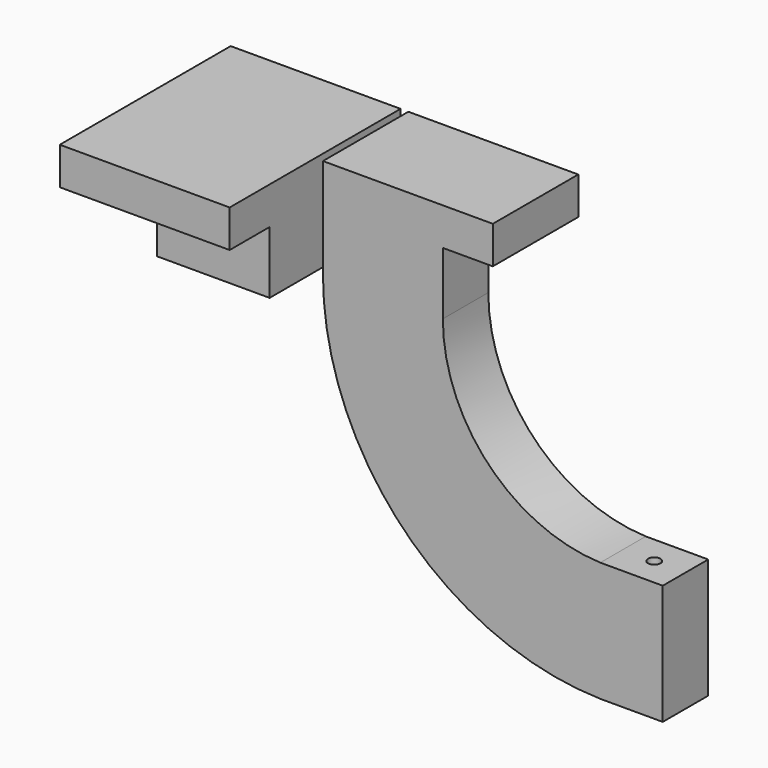
from build123d import *

# Parameters (mm, degrees)
F0_W     = 45
F0_H     = 45.5
F1_DEPTH = 25
F0_W_2   = 48
F0_H_2   = 22.75
F2_W     = 68
F2_H     = 85.5
F3_DEPTH = 15
F4_W     = 68
F4_H     = 42.75
F5_DEPTH = 15
F6_W     = 25
F6_H     = 48
F7_DEPTH = 22.75
F9_D     = 5


with BuildPart() as f1:
    # F0 (on Top) → F1 (new body)
    with BuildSketch(Plane.XY):
        with Locations((-22.5, 0)):
            Rectangle(F0_W, F0_H)
    extrude(amount=F1_DEPTH)

    # F2 (on face) → F3 (join)
    with BuildSketch(Plane.XY.offset(25)):
        with Locations((-34, 0)):
            Rectangle(F2_W, F2_H)
    extrude(amount=F3_DEPTH)


with BuildPart() as f1b:
    # F0 (on Top) → F1, piece 2 (new body)
    with BuildSketch(Plane.XY):
        with Locations((27.1356669497, 11.375)):
            Rectangle(F0_W_2, F0_H_2)
    extrude(amount=F1_DEPTH)

    # F4 (on face) → F5 (join)
    with BuildSketch(Plane.XY.offset(25)):
        with Locations((37.1356669497, 21.375)):
            Rectangle(F4_W, F4_H)
    extrude(amount=F5_DEPTH)

    # F6 (on face) → F7 (join)
    with BuildSketch(Plane(origin=(0, 22.75, 0), x_dir=(-1, 0, 0), z_dir=(0, 1, 0))):
        with BuildLine():
            ThreePointArc((-51.1356669497, 0), (-69.4543816945, -45.4154488879), (-114.1570582986, -65.4106736183))
            Line((-114.1570582986, -65.4106736183), (-114.1570582986, -113.4106736183))
            ThreePointArc((-114.1570582986, -113.4106736183), (-35.5110824214, -79.3532139041), (-3.1356669497, 0))
            Line((-3.1356669497, 0), (-51.1356669497, 0))
        make_face()
        with Locations((-126.6570582986, -89.4106736183)):
            Rectangle(F6_W, F6_H)
    extrude(amount=-F7_DEPTH)

    # F9 (through all)
    with Locations(Plane.XY.offset(-65.4106736183)):
        with Locations((126.6570582986, 11.375)):
            Hole(F9_D / 2)


solid = Compound([f1.part, f1b.part])
